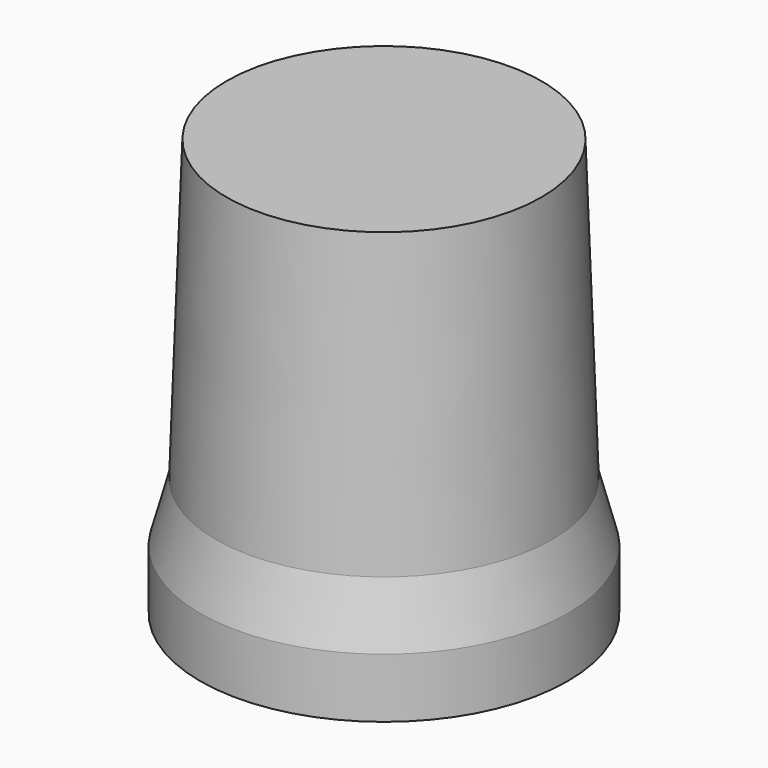
from build123d import *

# Parameters (mm, degrees)
F0_R      = 9.25
F1_DEPTH  = 3
F1_FACE_R = 9.25
F2_DEPTH  = 3
F2_TAPER  = 15
F2_FACE_R = 8.4461524227
F3_DEPTH  = 15
F3_TAPER  = 2


with BuildPart() as f1:
    # F0 (on Top) → F1 (new body)
    with BuildSketch(Plane.XY):
        Circle(F0_R)
    extrude(amount=F1_DEPTH)

    # F1_face (on face) → F2 (join)
    with BuildSketch(Plane.XY.offset(3)):
        Circle(F1_FACE_R)
    extrude(amount=F2_DEPTH, taper=F2_TAPER)

    # F2_face (on face) → F3 (join)
    with BuildSketch(Plane.XY.offset(6)):
        Circle(F2_FACE_R)
    extrude(amount=F3_DEPTH, taper=F3_TAPER)


solid = f1.part
